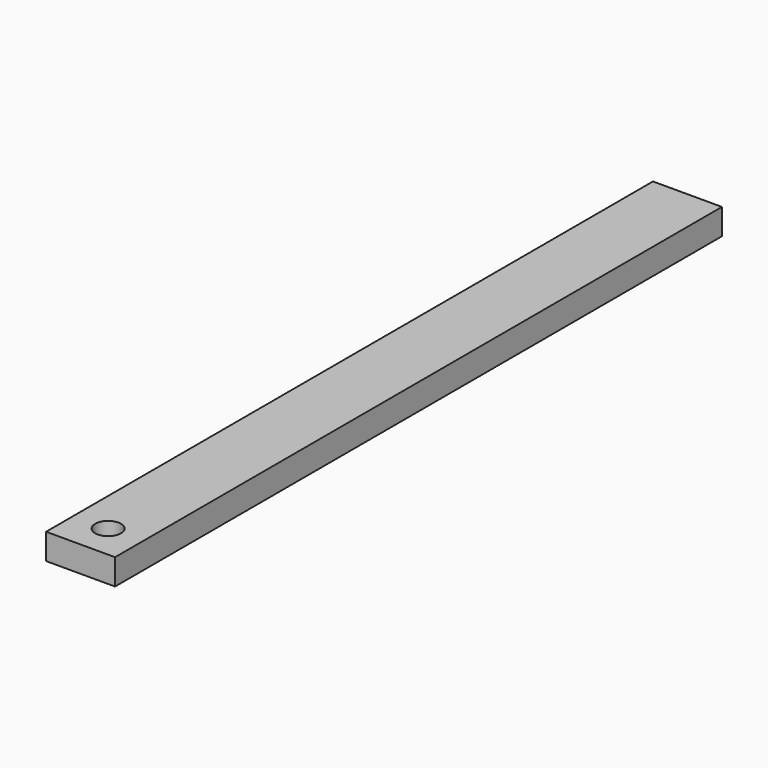
from build123d import *

# Parameters (mm, degrees)
F0_W     = 50.8
F0_H     = 508
F0_H_2   = 50.8
F0_R     = 9.525
F1_DEPTH = 19.05


with BuildPart() as f1:
    # F0 (on Top) → F1 (new body)
    with BuildSketch(Plane.XY):
        with Locations((25.4, 254)):
            Rectangle(F0_W, F0_H)
        with Locations((25.4, -25.4)):
            Rectangle(F0_W, F0_H_2)
        with Locations((25.4, -25.4)):
            Circle(F0_R, mode=Mode.SUBTRACT)
    extrude(amount=F1_DEPTH)


solid = f1.part
